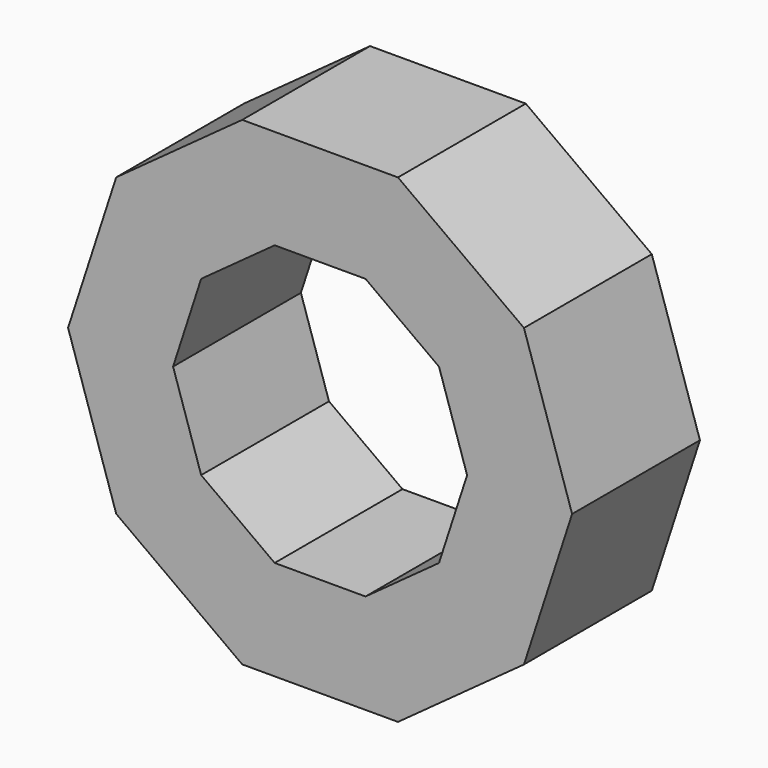
from build123d import *

# Parameters (mm, degrees)
F1_DEPTH = 25.4


with BuildPart() as f1:
    # F0 (on Front) → F1 (new body)
    with BuildSketch(Plane.XZ):
        Polygon((12.37944, 38.1), (0, 38.1), (-12.37944, 38.1), (-32.409796, 23.547095), (-40.060711, 0), (-32.409796, -23.547095), (-12.37944, -38.1), (12.37944, -38.1), (32.409796, -23.547095), (40.060711, 0), (32.409796, 23.547095), align=None)
        Polygon((-7.22134, 22.225), (0, 22.225), (7.22134, 22.225), (18.905714, 13.735805), (23.368748, 0), (18.905714, -13.735805), (7.22134, -22.225), (-7.22134, -22.225), (-18.905714, -13.735805), (-23.368748, 0), (-18.905714, 13.735805), align=None, mode=Mode.SUBTRACT)
    extrude(amount=F1_DEPTH)


solid = f1.part
